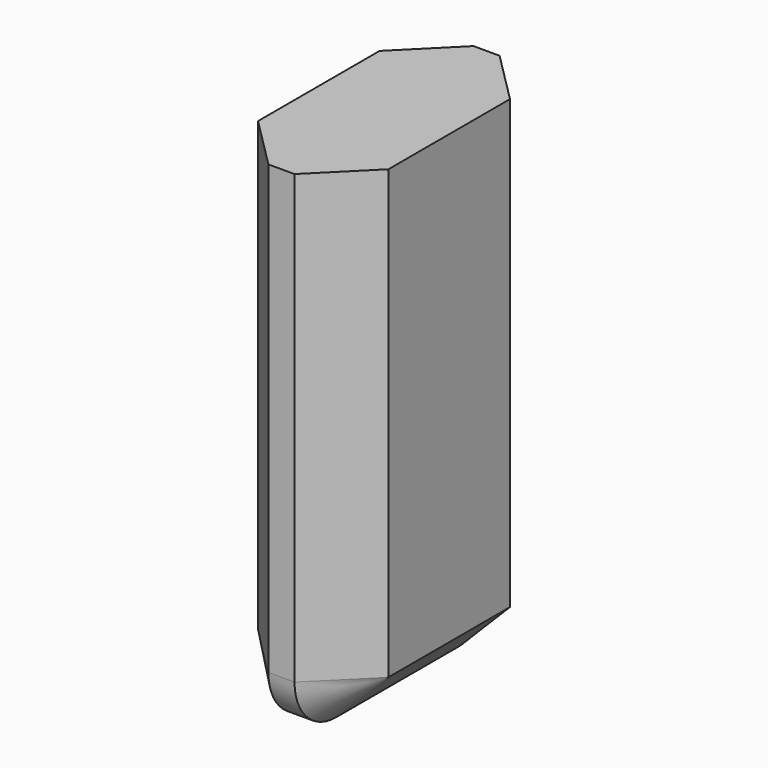
from build123d import *

# Parameters (mm, degrees)
F0_W     = 24.954888
F0_H     = 48.623441
F1_DEPTH = 12.7
F2_R     = 5.08
F3_SIZE  = 5.08


with BuildPart() as f1:
    # F0 (on Right) → F1 (new body)
    with BuildSketch(Plane.YZ):
        with Locations((-3.215835, 9.647509)):
            Rectangle(F0_W, F0_H)
    extrude(amount=F1_DEPTH)

    # F2
    f2_edges = [f1.edges().sort_by_distance(p)[0] for p in [
        (6.35, -15.693279, -14.664212),
        (6.35, 9.261609, -14.664212),
    ]]
    fillet(f2_edges, radius=F2_R)

    # F3
    f3_edges = [f1.edges().sort_by_distance(p)[0] for p in [
        (12.7, -3.215835, -14.664212),
        (0, -3.215835, -14.664212),
    ]]
    chamfer(f3_edges, length=F3_SIZE)


solid = f1.part
